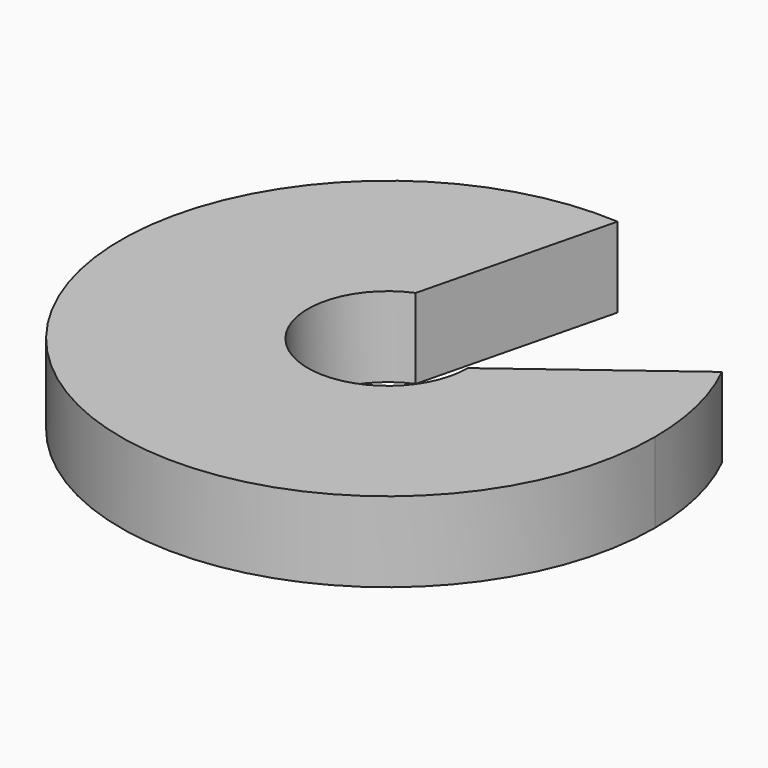
from build123d import *

# Parameters (mm, degrees)
F3_DEPTH = 1.5
F4_R     = 4
F5_DEPTH = 0.5


with BuildPart() as f3:
    # F2 (on Top) → F3 (new body)
    with BuildSketch(Plane.XY):
        with BuildLine():
            ThreePointArc((0.3102344361, 4.9903661784), (-3.6435677694, -3.4240931515), (5, 0))
            ThreePointArc((5, 0), (4.8674688244, 1.1435677694), (4.4769011027, 2.2265121865))
            Line((4.4769011027, 2.2265121865), (1.5, 0))
            ThreePointArc((1.5, 0), (-0.8291561976, -1.25), (-0.5833333333, 1.381926996))
            Line((-0.5833333333, 1.381926996), (0.3102344361, 4.9903661784))
        make_face()
    extrude(amount=F3_DEPTH)

    # F4 (on face) → F5 (cut)
    with BuildSketch(Plane.XY.offset(1.5)):
        Circle(F4_R)
    extrude(amount=F5_DEPTH, mode=Mode.SUBTRACT)


solid = f3.part
